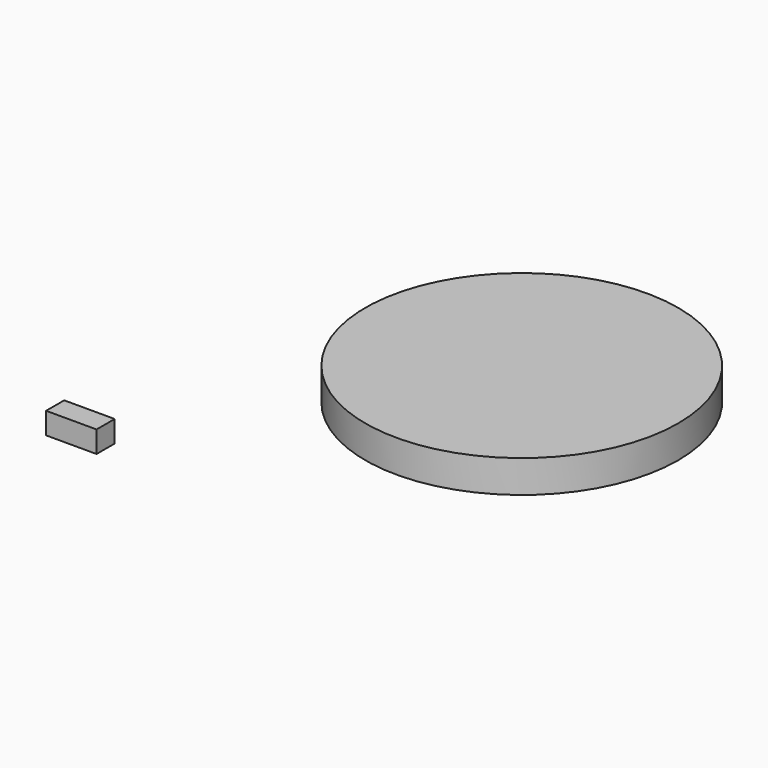
from build123d import *

# Parameters (mm, degrees)
F0_R     = 29.3624
F1_DEPTH = 6.096
F2_W     = 9.471014
F2_H     = 4.251368
F3_DEPTH = 4.064


with BuildPart() as f1:
    # F0 (on Top) → F1 (new body)
    with BuildSketch(Plane.XY):
        Circle(F0_R)
    extrude(amount=F1_DEPTH)


with BuildPart() as f3:
    # F2 (on Top) → F3 (new body)
    with BuildSketch(Plane.XY):
        with Locations((-43.160599, -49.567897)):
            Rectangle(F2_W, F2_H)
    extrude(amount=F3_DEPTH)


solid = Compound([f1.part, f3.part])
